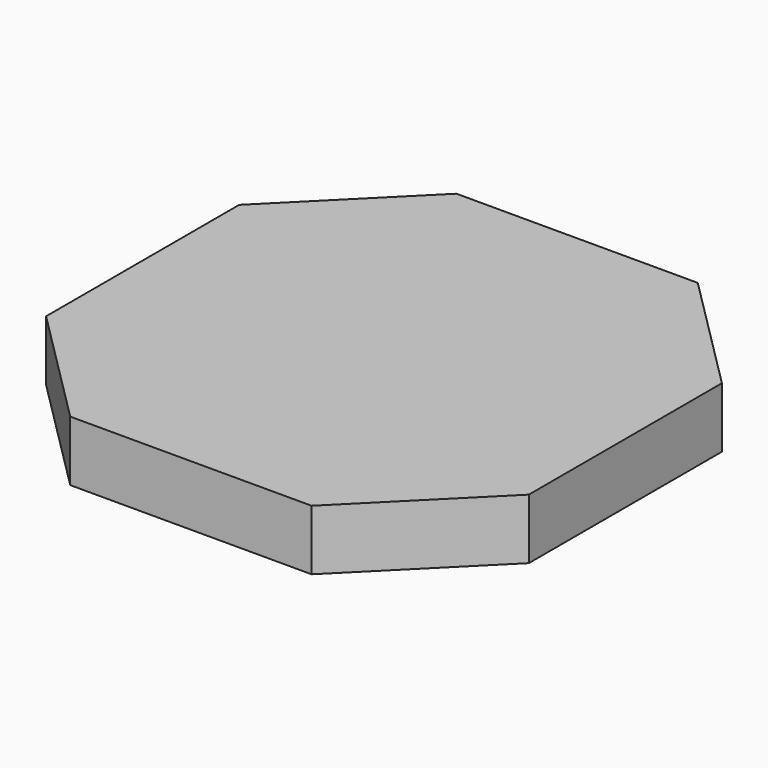
from build123d import *

# Parameters (mm, degrees)
F0_W     = 50.8
F0_H     = 50.8
F1_DEPTH = 3.175
F2_SIZE  = 12.7


with BuildPart() as f1:
    # F0 (on Top) → F1 (new body, symmetric)
    with BuildSketch(Plane.XY):
        Rectangle(F0_W, F0_H)
    extrude(amount=F1_DEPTH, both=True)

    # F2
    f2_edges = [f1.edges().sort_by_distance(p)[0] for p in [
        (-25.4, -25.4, 0),
        (25.4, -25.4, 0),
        (25.4, 25.4, 0),
        (-25.4, 25.4, 0),
    ]]
    chamfer(f2_edges, length=F2_SIZE)


solid = f1.part
